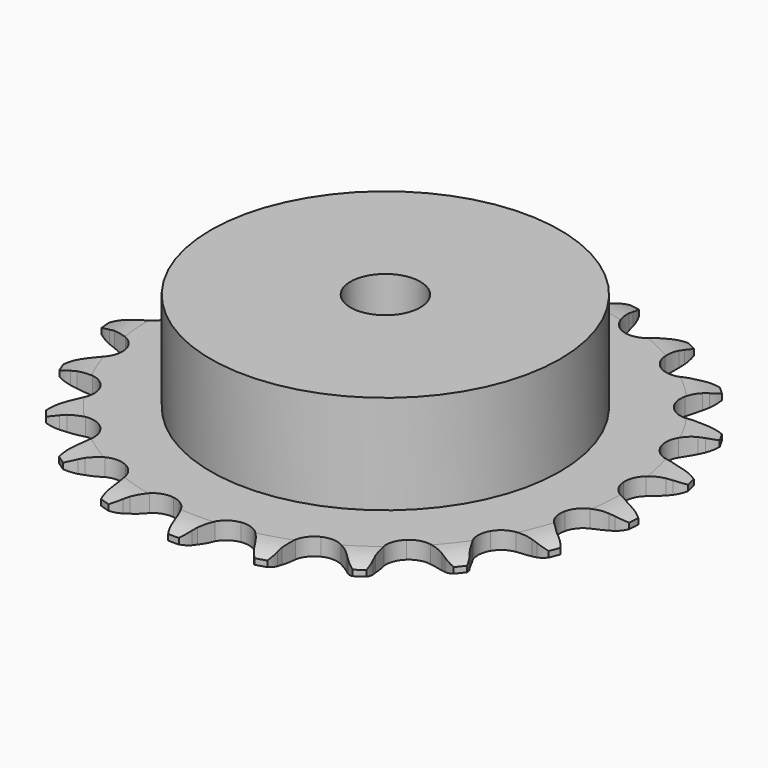
from build123d import *

# Parameters (mm, degrees)
PAD_DEPTH         = 3
SKETCH001_R       = 30
PAD001_DEPTH      = 20
SKETCH002_R       = 6
POCKET_DEPTH      = 0.001
POCKET_DEPTH_BACK = 20.001


with BuildPart() as part:
    # Sprocket → Pad (new body)
    with BuildSketch(Plane.XY):
        with BuildLine():
            ThreePointArc((-6.952451, 46.126502), (-5.711088, 44.923343), (-4.838513, 43.430966))
            Line((-4.838513, 43.430966), (-4.464405, 42.528852))
            ThreePointArc((-4.464405, 42.528852), (-3.862921, 41.31489), (-3.104859, 40.192025))
            ThreePointArc((-3.104859, 40.192025), (-1.728289, 39.073031), (0, 38.672889))
            ThreePointArc((0, 38.672889), (1.728289, 39.073031), (3.104859, 40.192025))
            ThreePointArc((3.104859, 40.192025), (3.862921, 41.31489), (4.464405, 42.528852))
            Line((4.464405, 42.528852), (4.838513, 43.430966))
            ThreePointArc((4.838513, 43.430966), (5.711088, 44.923343), (6.952451, 46.126502))
            ThreePointArc((6.952451, 46.126502), (7.784027, 44.610897), (8.177951, 42.927627))
            Line((8.177951, 42.927627), (8.269535, 41.955321))
            ThreePointArc((8.269535, 41.955321), (8.486475, 40.618002), (8.879888, 39.321579))
            ThreePointArc((8.879888, 39.321579), (9.865472, 37.846548), (11.399034, 36.954761))
            ThreePointArc((11.399034, 36.954761), (13.168484, 36.827704), (14.813726, 37.491232))
            Line((14.813726, 37.491232), (16.801663, 39.323508))
            ThreePointArc((16.801663, 39.323508), (17.104296, 39.706906), (17.425053, 40.075274))
            ThreePointArc((17.425053, 40.075274), (18.698748, 41.244152), (20.239599, 42.027959))
            ThreePointArc((20.239599, 42.027959), (20.587498, 40.334578), (20.467768, 38.60998))
            Line((20.467768, 38.60998), (20.26869, 37.653875))
            ThreePointArc((20.26869, 37.653875), (20.081811, 36.312025), (20.075618, 34.957239))
            ThreePointArc((20.075618, 34.957239), (20.582643, 33.257233), (21.785214, 31.95304))
            ThreePointArc((21.785214, 31.95304), (23.438601, 31.310073), (25.206329, 31.459179))
            Line((25.206329, 31.459179), (27.64602, 32.624097))
            ThreePointArc((27.64602, 32.624097), (28.048216, 32.90126), (28.463301, 33.158717))
            ThreePointArc((28.463301, 33.158717), (30.024942, 33.900237), (31.728368, 34.195049))
            ThreePointArc((31.728368, 34.195049), (31.561678, 32.474354), (30.938933, 30.861666))
            Line((30.938933, 30.861666), (30.466884, 30.006718))
            ThreePointArc((30.466884, 30.006718), (29.89279, 28.779566), (29.487542, 27.486794))
            ThreePointArc((29.487542, 27.486794), (29.470955, 25.712867), (30.235682, 24.112152))
            ThreePointArc((30.235682, 24.112152), (31.626096, 23.010406), (33.359238, 22.631841))
            Line((33.359238, 22.631841), (36.033906, 23.025893))
            ThreePointArc((36.033906, 23.025893), (36.499929, 23.172192), (36.97246, 23.295863))
            ThreePointArc((36.97246, 23.295863), (38.683289, 23.544138), (40.397934, 23.323758))
            ThreePointArc((40.397934, 23.323758), (39.731466, 21.728642), (38.661039, 20.371158))
            Line((38.661039, 20.371158), (37.957961, 19.693332))
            ThreePointArc((37.957961, 19.693332), (37.047663, 18.689916), (36.279368, 17.574028))
            ThreePointArc((36.279368, 17.574028), (35.740644, 15.8838), (35.999577, 14.128793))
            ThreePointArc((35.999577, 14.128793), (37.003473, 12.666163), (38.548033, 11.793563))
            Line((38.548033, 11.793563), (41.220022, 11.381736))
            ThreePointArc((41.220022, 11.381736), (41.708463, 11.384174), (42.196454, 11.363069))
            ThreePointArc((42.196454, 11.363069), (43.904455, 11.096038), (45.477965, 10.380049))
            ThreePointArc((45.477965, 10.380049), (44.370938, 9.052244), (42.947942, 8.070584))
            Line((42.947942, 8.070584), (42.076307, 7.630107))
            ThreePointArc((42.076307, 7.630107), (40.910689, 6.939585), (39.847613, 6.099731))
            ThreePointArc((39.847613, 6.099731), (38.834619, 4.643387), (38.564752, 2.890029))
            ThreePointArc((38.564752, 2.890029), (39.09293, 1.196475), (40.311666, -0.092624))
            Line((40.311666, -0.092624), (42.743558, -1.273737))
            ThreePointArc((42.743558, -1.273737), (43.211017, -1.415378), (43.671107, -1.579383))
            ThreePointArc((43.671107, -1.579383), (45.224518, -2.337993), (46.51708, -3.485973))
            ThreePointArc((46.51708, -3.485973), (45.067857, -4.428485), (43.418732, -4.947098))
            Line((43.418732, -4.947098), (42.455988, -5.111086))
            ThreePointArc((42.455988, -5.111086), (41.138621, -5.427358), (39.875223, -5.916553))
            ThreePointArc((39.875223, -5.916553), (38.477969, -7.009611), (37.703279, -8.605527))
            ThreePointArc((37.703279, -8.605527), (37.708808, -10.379524), (38.49343, -11.970581))
            Line((38.49343, -11.970581), (40.469141, -13.816033))
            ThreePointArc((40.469141, -13.816033), (40.874083, -14.089168), (41.265391, -14.3815))
            ThreePointArc((41.265391, -14.3815), (42.526184, -15.564283), (43.422948, -17.042251))
            ThreePointArc((43.422948, -17.042251), (41.7603, -17.515724), (40.031577, -17.525208))
            Line((40.031577, -17.525208), (39.063269, -17.398137))
            ThreePointArc((39.063269, -17.398137), (37.711205, -17.312057), (36.359744, -17.407125))
            ThreePointArc((36.359744, -17.407125), (34.702381, -18.039774), (33.491704, -19.336444))
            ThreePointArc((33.491704, -19.336444), (32.974093, -21.033257), (33.254885, -22.784899))
            Line((33.254885, -22.784899), (34.598863, -25.130714))
            ThreePointArc((34.598863, -25.130714), (34.905307, -25.511073), (35.193064, -25.905758))
            ThreePointArc((35.193064, -25.905758), (36.049212, -27.407619), (36.470496, -29.08425))
            ThreePointArc((36.470496, -29.08425), (34.742157, -29.046614), (33.08744, -28.546127))
            Line((33.08744, -28.546127), (32.199606, -28.139287))
            ThreePointArc((32.199606, -28.139287), (30.932984, -27.658504), (29.613542, -27.350998))
            ThreePointArc((29.613542, -27.350998), (27.843335, -27.467024), (26.304245, -28.349234))
            ThreePointArc((26.304245, -28.349234), (25.309485, -29.818093), (25.061496, -31.57468))
            Line((25.061496, -31.57468), (25.654325, -34.212421))
            ThreePointArc((25.654325, -34.212421), (25.835041, -34.666208), (25.993678, -35.128176))
            ThreePointArc((25.993678, -35.128176), (26.369109, -36.815667), (26.277481, -38.541986))
            ThreePointArc((26.277481, -38.541986), (24.63702, -37.996585), (23.20334, -37.030597))
            Line((23.20334, -37.030597), (22.474867, -36.380138))
            ThreePointArc((22.474867, -36.380138), (21.406231, -35.547371), (20.236048, -34.864615))
            ThreePointArc((20.236048, -34.864615), (18.510287, -34.453708), (16.779538, -34.843069))
            ThreePointArc((16.779538, -34.843069), (15.396018, -35.953461), (14.641284, -37.558911))
            Line((14.641284, -37.558911), (14.430287, -40.254204))
            ThreePointArc((14.430287, -40.254204), (14.469219, -40.741097), (14.484641, -41.229301))
            ThreePointArc((14.484641, -41.229301), (14.345995, -42.952481), (13.749597, -44.575097))
            ThreePointArc((13.749597, -44.575097), (12.342777, -43.570393), (11.25752, -42.224736))
            Line((11.25752, -42.224736), (10.753138, -41.388454))
            ThreePointArc((10.753138, -41.388454), (9.97744, -40.277699), (9.060491, -39.280358))
            ThreePointArc((9.060491, -39.280358), (7.532518, -38.379029), (5.763895, -38.240945))
            ThreePointArc((5.763895, -38.240945), (4.114548, -38.894205), (2.92013, -40.205868))
            Line((2.92013, -40.205868), (1.924055, -42.719225))
            ThreePointArc((1.924055, -42.719225), (1.817743, -43.195962), (1.688579, -43.667021))
            ThreePointArc((1.688579, -43.667021), (1.048177, -45.27278), (0, -46.647516))
            ThreePointArc((0, -46.647516), (-1.048177, -45.27278), (-1.688579, -43.667021))
            Line((-1.688579, -43.667021), (-1.924055, -42.719225))
            ThreePointArc((-1.924055, -42.719225), (-2.337889, -41.429176), (-2.92013, -40.205868))
            ThreePointArc((-2.92013, -40.205868), (-4.114548, -38.894205), (-5.763895, -38.240945))
            ThreePointArc((-5.763895, -38.240945), (-7.532518, -38.379029), (-9.060491, -39.280358))
            Line((-9.060491, -39.280358), (-10.753138, -41.388454))
            ThreePointArc((-10.753138, -41.388454), (-10.995248, -41.812675), (-11.25752, -42.224736))
            ThreePointArc((-11.25752, -42.224736), (-12.342777, -43.570393), (-13.749597, -44.575097))
            ThreePointArc((-13.749597, -44.575097), (-14.345995, -42.952481), (-14.484641, -41.229301))
            Line((-14.484641, -41.229301), (-14.430287, -40.254204))
            ThreePointArc((-14.430287, -40.254204), (-14.445487, -38.899489), (-14.641284, -37.558911))
            ThreePointArc((-14.641284, -37.558911), (-15.396018, -35.953461), (-16.779538, -34.843069))
            ThreePointArc((-16.779538, -34.843069), (-18.510287, -34.453708), (-20.236048, -34.864615))
            Line((-20.236048, -34.864615), (-22.474867, -36.380138))
            ThreePointArc((-22.474867, -36.380138), (-22.831262, -36.714149), (-23.20334, -37.030597))
            ThreePointArc((-23.20334, -37.030597), (-24.63702, -37.996585), (-26.277481, -38.541986))
            ThreePointArc((-26.277481, -38.541986), (-26.369109, -36.815667), (-25.993678, -35.128176))
            Line((-25.993678, -35.128176), (-25.654325, -34.212421))
            ThreePointArc((-25.654325, -34.212421), (-25.269541, -32.913411), (-25.061496, -31.57468))
            ThreePointArc((-25.061496, -31.57468), (-25.309485, -29.818093), (-26.304245, -28.349234))
            ThreePointArc((-26.304245, -28.349234), (-27.843335, -27.467024), (-29.613542, -27.350998))
            Line((-29.613542, -27.350998), (-32.199606, -28.139287))
            ThreePointArc((-32.199606, -28.139287), (-32.638619, -28.35341), (-33.08744, -28.546127))
            ThreePointArc((-33.08744, -28.546127), (-34.742157, -29.046614), (-36.470496, -29.08425))
            ThreePointArc((-36.470496, -29.08425), (-36.049212, -27.407619), (-35.193064, -25.905758))
            Line((-35.193064, -25.905758), (-34.598863, -25.130714))
            ThreePointArc((-34.598863, -25.130714), (-33.848284, -24.002833), (-33.254885, -22.784899))
            ThreePointArc((-33.254885, -22.784899), (-32.974093, -21.033257), (-33.491704, -19.336444))
            ThreePointArc((-33.491704, -19.336444), (-34.702381, -18.039774), (-36.359744, -17.407125))
            Line((-36.359744, -17.407125), (-39.063269, -17.398137))
            ThreePointArc((-39.063269, -17.398137), (-39.545891, -17.473346), (-40.031577, -17.525208))
            ThreePointArc((-40.031577, -17.525208), (-41.7603, -17.515724), (-43.422948, -17.042251))
            ThreePointArc((-43.422948, -17.042251), (-42.526184, -15.564283), (-41.265391, -14.3815))
            Line((-41.265391, -14.3815), (-40.469141, -13.816033))
            ThreePointArc((-40.469141, -13.816033), (-39.419459, -12.959498), (-38.49343, -11.970581))
            ThreePointArc((-38.49343, -11.970581), (-37.708808, -10.379524), (-37.703279, -8.605527))
            ThreePointArc((-37.703279, -8.605527), (-38.477969, -7.009611), (-39.875223, -5.916553))
            Line((-39.875223, -5.916553), (-42.455988, -5.111086))
            ThreePointArc((-42.455988, -5.111086), (-42.939337, -5.040698), (-43.418732, -4.947098))
            ThreePointArc((-43.418732, -4.947098), (-45.067857, -4.428485), (-46.51708, -3.485973))
            ThreePointArc((-46.51708, -3.485973), (-45.224518, -2.337993), (-43.671107, -1.579383))
            Line((-43.671107, -1.579383), (-42.743558, -1.273737))
            ThreePointArc((-42.743558, -1.273737), (-41.488042, -0.764654), (-40.311666, -0.092624))
            ThreePointArc((-40.311666, -0.092624), (-39.09293, 1.196475), (-38.564752, 2.890029))
            ThreePointArc((-38.564752, 2.890029), (-38.834619, 4.643387), (-39.847613, 6.099731))
            Line((-39.847613, 6.099731), (-42.076307, 7.630107))
            ThreePointArc((-42.076307, 7.630107), (-42.517434, 7.839838), (-42.947942, 8.070584))
            ThreePointArc((-42.947942, 8.070584), (-44.370938, 9.052244), (-45.477965, 10.380049))
            ThreePointArc((-45.477965, 10.380049), (-43.904455, 11.096038), (-42.196454, 11.363069))
            Line((-42.196454, 11.363069), (-41.220022, 11.381736))
            ThreePointArc((-41.220022, 11.381736), (-39.87023, 11.498132), (-38.548033, 11.793563))
            ThreePointArc((-38.548033, 11.793563), (-37.003473, 12.666163), (-35.999577, 14.128793))
            ThreePointArc((-35.999577, 14.128793), (-35.740644, 15.8838), (-36.279368, 17.574028))
            Line((-36.279368, 17.574028), (-37.957961, 19.693332))
            ThreePointArc((-37.957961, 19.693332), (-38.317671, 20.02377), (-38.661039, 20.371158))
            ThreePointArc((-38.661039, 20.371158), (-39.731466, 21.728642), (-40.397934, 23.323758))
            ThreePointArc((-40.397934, 23.323758), (-38.683289, 23.544138), (-36.97246, 23.295863))
            Line((-36.97246, 23.295863), (-36.033906, 23.025893))
            ThreePointArc((-36.033906, 23.025893), (-34.709774, 22.739259), (-33.359238, 22.631841))
            ThreePointArc((-33.359238, 22.631841), (-31.626096, 23.010406), (-30.235682, 24.112152))
            ThreePointArc((-30.235682, 24.112152), (-29.470955, 25.712867), (-29.487542, 27.486794))
            Line((-29.487542, 27.486794), (-30.466884, 30.006718))
            ThreePointArc((-30.466884, 30.006718), (-30.713215, 30.428502), (-30.938933, 30.861666))
            ThreePointArc((-30.938933, 30.861666), (-31.561678, 32.474354), (-31.728368, 34.195049))
            ThreePointArc((-31.728368, 34.195049), (-30.024942, 33.900237), (-28.463301, 33.158717))
            Line((-28.463301, 33.158717), (-27.64602, 32.624097))
            ThreePointArc((-27.64602, 32.624097), (-26.465202, 31.959903), (-25.206329, 31.459179))
            ThreePointArc((-25.206329, 31.459179), (-23.438601, 31.310073), (-21.785214, 31.95304))
            ThreePointArc((-21.785214, 31.95304), (-20.582643, 33.257233), (-20.075618, 34.957239))
            Line((-20.075618, 34.957239), (-20.26869, 37.653875))
            ThreePointArc((-20.26869, 37.653875), (-20.379755, 38.129528), (-20.467768, 38.60998))
            ThreePointArc((-20.467768, 38.60998), (-20.587498, 40.334578), (-20.239599, 42.027959))
            ThreePointArc((-20.239599, 42.027959), (-18.698748, 41.244152), (-17.425053, 40.075274))
            Line((-17.425053, 40.075274), (-16.801663, 39.323508))
            ThreePointArc((-16.801663, 39.323508), (-15.86908, 38.34077), (-14.813726, 37.491232))
            ThreePointArc((-14.813726, 37.491232), (-13.168484, 36.827704), (-11.399034, 36.954761))
            ThreePointArc((-11.399034, 36.954761), (-9.865472, 37.846548), (-8.879888, 39.321579))
            Line((-8.879888, 39.321579), (-8.269535, 41.955321))
            ThreePointArc((-8.269535, 41.955321), (-8.235464, 42.442578), (-8.177951, 42.927627))
            ThreePointArc((-8.177951, 42.927627), (-7.784027, 44.610897), (-6.952451, 46.126502))
        make_face()
    extrude(amount=PAD_DEPTH)

    # Sketch → Groove (revolve, cut)
    with BuildSketch(Plane.XZ):
        with BuildLine():
            Line((40.5, 0), (45.5, 0))
            Line((50.5, 0), (45.5, 0))
            Line((50.5, 3), (50.5, 0))
            Line((45.5, 3), (50.5, 3))
            Line((40.5, 3), (45.5, 3))
            ThreePointArc((45.5, 2), (43.04951, 2.747549), (40.5, 3))
            Line((45.5, 1), (45.5, 2))
            ThreePointArc((40.5, 0), (43.04951, 0.252451), (45.5, 1))
        make_face()
    revolve(axis=Axis((0, 0, 0), (0, 0, 1)), mode=Mode.SUBTRACT)

    # Sketch001 → Pad001 (join)
    with BuildSketch(Plane.XY):
        Circle(SKETCH001_R)
    extrude(amount=PAD001_DEPTH)

    # Sketch002 → Pocket (cut, two sides)
    with BuildSketch(Plane.XY) as pocket_sk:
        Circle(SKETCH002_R)
    extrude(amount=-POCKET_DEPTH, mode=Mode.SUBTRACT)
    extrude(pocket_sk.sketch, amount=POCKET_DEPTH_BACK, mode=Mode.SUBTRACT)


solid = part.part
